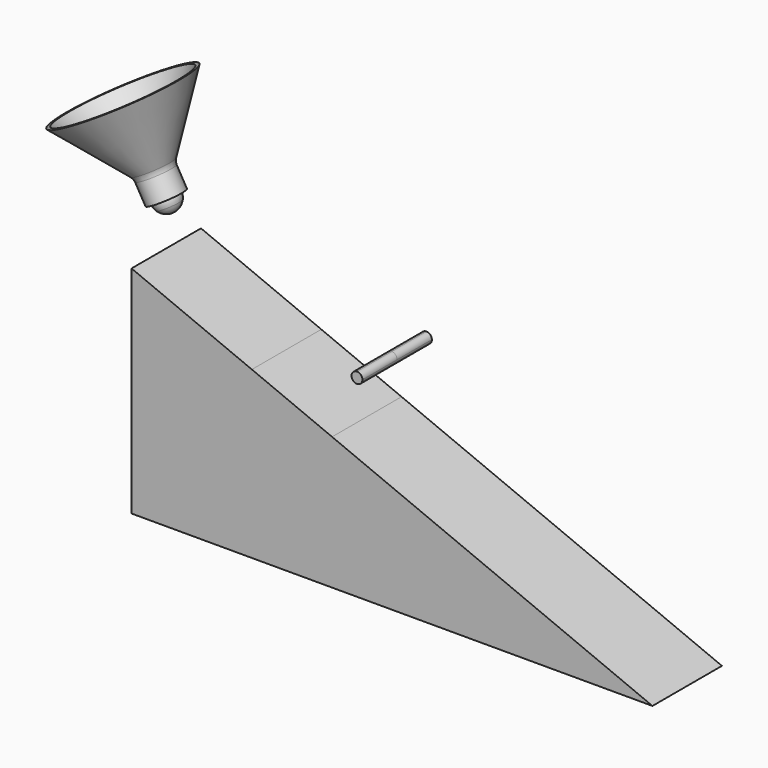
from build123d import *

# Parameters (mm, degrees)
F3_R     = 6.35
F4_R     = 4.7752
F5_DEPTH = 25.4


with BuildPart() as f1:
    # F0 (on Front) → F1 (revolve)
    with BuildSketch(Plane.XZ):
        Polygon((-361.4633005703, 178.3442155122), (-363.1955678842, 177.3440905122), (-320.6057337073, 159.151533832), (-313.730800374, 147.2438), (-312.3449865229, 148.0439), (-319.4866198562, 160.4135717824), align=None)
    revolve(axis=Axis((-317.5, 0, 174.3970452561), (0.5, 0, -0.8660254038)))

    # F3
    f3_edges = [f1.edges().sort_by_distance(p)[0] for p in [
        (-304.396647, 0, 169.125772),
    ]]
    fillet(f3_edges, radius=F3_R)

    # F4
    f4_edges = [f1.edges().sort_by_distance(p)[0] for p in [
        (-302.744133, 0, 169.463934),
    ]]
    fillet(f4_edges, radius=F4_R)


with BuildPart() as f2:
    # F0 (on Front) → F2 (revolve)
    with BuildSketch(Plane.XZ):
        with BuildLine():
            Line((-308.61, 158.9991135768), (-304.8, 152.4))
            Line((-304.8, 152.4), (-300.99, 145.8008864232))
            ThreePointArc((-300.99, 145.8008864232), (-298.2008864232, 148.59), (-297.18, 152.4))
            ThreePointArc((-297.18, 152.4), (-300.99, 158.9991135768), (-308.61, 158.9991135768))
        make_face()
    revolve(axis=Axis((-304.8, 0, 152.4), (0.5, 0, -0.8660254038)))


with BuildPart() as f5:
    # F0 (on Front) → F5 (new body, symmetric)
    with BuildSketch(Plane.XZ):
        with BuildLine():
            ThreePointArc((-172.887060598, 109.6763080896), (-170.6419965677, 110.6062440594), (-169.712060598, 112.8513080896))
            ThreePointArc((-169.712060598, 112.8513080896), (-170.6419965677, 115.0963721199), (-172.887060598, 116.0263080896))
            ThreePointArc((-172.887060598, 116.0263080896), (-175.1321246282, 115.0963721199), (-176.062060598, 112.8513080896))
            ThreePointArc((-176.062060598, 112.8513080896), (-175.1321246282, 110.6062440594), (-172.887060598, 109.6763080896))
        make_face()
    extrude(amount=F5_DEPTH, both=True)


with BuildPart() as f5b:
    # F0 (on Front) → F5, piece 2 (new body, symmetric)
    with BuildSketch(Plane.XZ):
        Polygon((-304.8, 0), (0, 0), (-187.4672991352, 77.6514978032), (-234.4003803353, 97.0918165603), (-304.8, 126.2522938113), align=None)
    extrude(amount=F5_DEPTH, both=True)


solid = Compound([f1.part, f2.part, f5.part, f5b.part])
